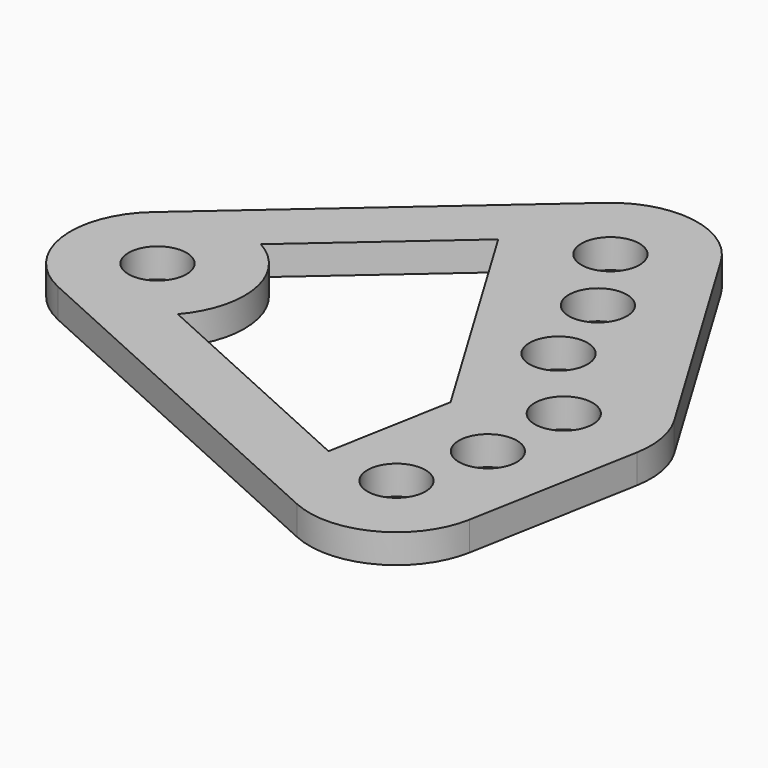
from build123d import *

# Parameters (mm, degrees)
F0_R     = 2
F1_DEPTH = 2


with BuildPart() as f1:
    # F0 (on Top) → F1 (new body)
    with BuildSketch(Plane.XY):
        with BuildLine():
            Line((14.409598, 20.584545), (-3.95152, 4.515029))
            ThreePointArc((-3.95152, 4.515029), (-5.935803, -0.875355), (-2.479985, -5.463486))
            Line((-2.479985, -5.463486), (23.380513, -17.202081))
            ThreePointArc((23.380513, -17.202081), (28.642886, -17.054451), (31.763256, -12.814445))
            Line((31.763256, -12.814445), (33.902758, -1.075849))
            ThreePointArc((33.902758, -1.075849), (33.903058, 1.074198), (33.145357, 3.086309))
            Line((33.145357, 3.086309), (23.506475, 19.155825))
            ThreePointArc((23.506475, 19.155825), (19.292043, 21.996858), (14.409598, 20.584545))
        make_face()
        Circle(F0_R, mode=Mode.SUBTRACT)
        with BuildLine():
            ThreePointArc((4.536526, -3.926822), (5.910801, 1.030744), (2.939637, 5.230539))
            Line((2.939637, 5.230539), (12.561948, 13.651916))
            Line((12.561948, 13.651916), (22.412634, -2.77071))
            Line((22.412634, -2.77071), (20.852092, -11.332783))
            Line((20.852092, -11.332783), (4.536526, -3.926822))
        make_face(mode=Mode.SUBTRACT)
        with Locations((25.860498, -11.738596)):
            Circle(F0_R, mode=Mode.SUBTRACT)
        with Locations((27.557857, -5.983687)):
            Circle(F0_R, mode=Mode.SUBTRACT)
        with Locations((28, 0)):
            Circle(F0_R, mode=Mode.SUBTRACT)
        with Locations((23.410714, 5.285684)):
            Circle(F0_R, mode=Mode.SUBTRACT)
        with Locations((21.559157, 10.992849)):
            Circle(F0_R, mode=Mode.SUBTRACT)
        with Locations((18.361118, 16.069516)):
            Circle(F0_R, mode=Mode.SUBTRACT)
    extrude(amount=F1_DEPTH)


solid = f1.part
